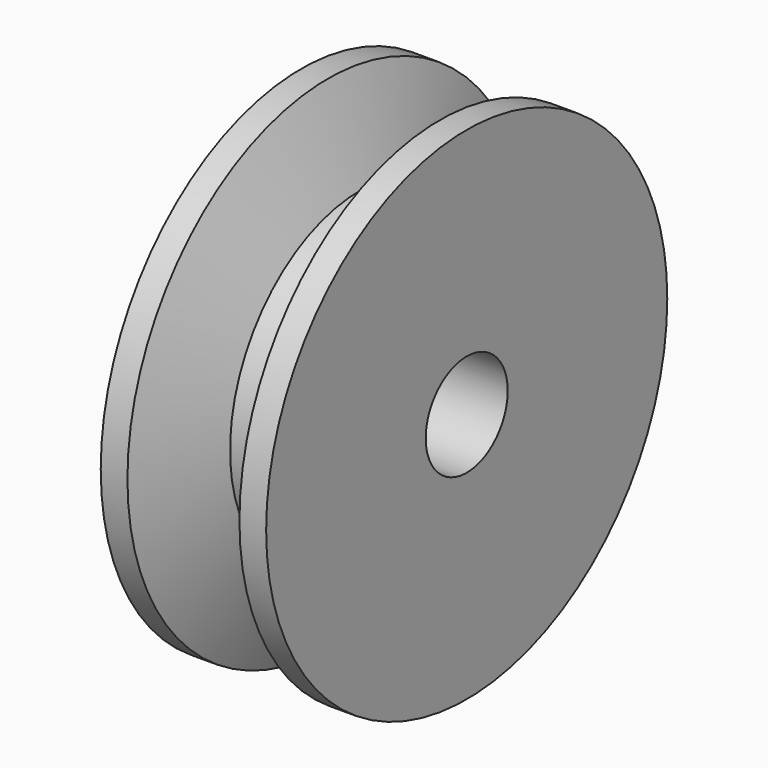
from build123d import *

# Parameters (mm, degrees)
F2_R     = 5.95
F3_DEPTH = 19.201


with BuildPart() as f1:
    # F0 (on Top) → F1 (revolve)
    with BuildSketch(Plane.XY):
        Polygon((0, 29.1), (0, 0), (19.2, 0), (19.2, 29.1), (16.1, 29.1), (12.375, 18.865647), (6.825, 18.865647), (3.1, 29.1), align=None)
    revolve(axis=Axis((9.6, 0, 0), (1, 0, 0)))

    # F2 (on face) → F3 (cut, through all)
    with BuildSketch(Plane.YZ.offset(19.2)):
        Circle(F2_R)
    extrude(amount=-F3_DEPTH, mode=Mode.SUBTRACT)


solid = f1.part
